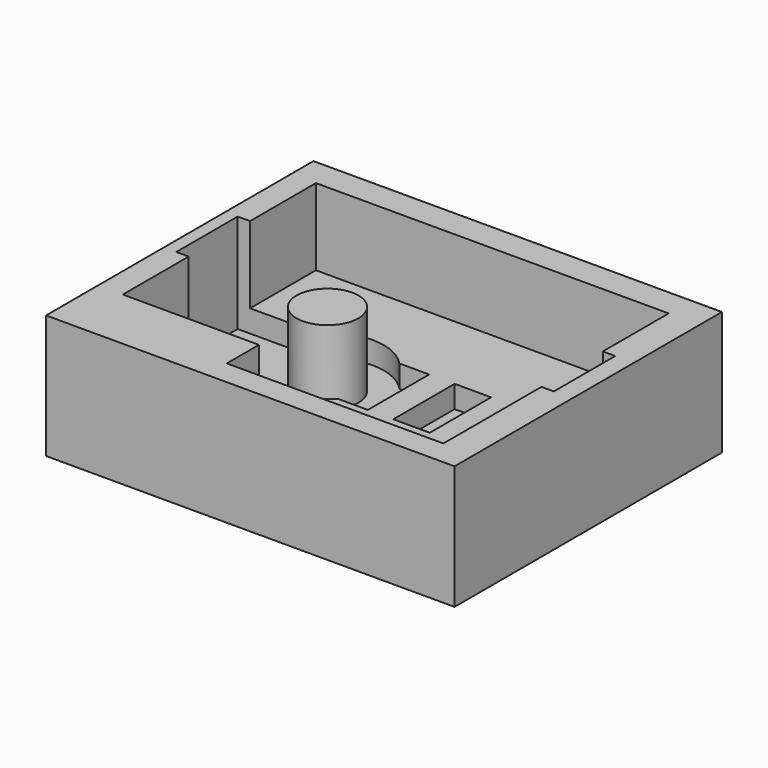
from build123d import *

# Parameters (mm, degrees)
PAD004_DEPTH             = 8.2
SKETCH014_W              = 28.5
SKETCH014_H              = 6.2
PAD005_DEPTH             = 1.8
SKETCH015_R              = 2.9
POCKET004_DEPTH          = 0.6
SKETCH016_W              = 2.05
SKETCH016_H              = 6.2
POCKET005_DEPTH          = 1.8
CLONE012_PLACEMENT_ANGLE = 180
BOX_W                    = 33
BOX_H                    = 27
BOX_DEPTH                = 10
SKETCH_W                 = 3
SKETCH_H                 = 3.25
POCKET009_DEPTH          = 6.2
SKETCH021_W              = 1
SKETCH021_H              = 6.2
POCKET010_DEPTH          = 8
SKETCH022_R              = 4.55
POCKET011_DEPTH          = 1.8
SKETCH023_R              = 2.5
PAD_DEPTH                = 6


with BuildPart() as body011:
    # Sketch013 → Pad004 (new body)
    with BuildSketch(Plane.XY):
        with BuildLine():
            Line((0, 0), (28.5, 0))
            Line((28.5, 0), (28.5, 22.75))
            Line((28.5, 22.75), (14, 22.75))
            Line((14, 22.75), (14, 22.5))
            ThreePointArc((11, 19.5), (13.12132, 20.37868), (14, 22.5))
            Line((11, 19.5), (0, 19.5))
            Line((0, 19.5), (0, 0))
        make_face()
    extrude(amount=PAD004_DEPTH)

    # Sketch014 (on Face9 of Pad004) → Pad005 (join)
    with BuildSketch(Plane.XY.offset(8.2)):
        with Locations((14.25, 9.75)):
            Rectangle(SKETCH014_W, SKETCH014_H)
    extrude(amount=PAD005_DEPTH)

    # Sketch015 (on Face11 of Pad005) → Pocket004 (cut)
    with BuildSketch(Plane.XY.offset(10)):
        with Locations((8.735056, 9.75)):
            Circle(SKETCH015_R)
    extrude(amount=-POCKET004_DEPTH, mode=Mode.SUBTRACT)

    # Sketch016 (on Face10 of Pocket004) → Pocket005 (cut)
    with BuildSketch(Plane.XY.offset(10)):
        with Locations((15.5, 9.75)):
            Rectangle(SKETCH016_W, SKETCH016_H)
        Polygon((21.525, 12.85), (21.525, 6.65), (19.475, 6.65), (19.475, 12.85), (20.5, 12.85), align=None)
        with Locations((25.5, 9.75)):
            Rectangle(SKETCH016_W, SKETCH016_H)
    extrude(amount=-POCKET005_DEPTH, mode=Mode.SUBTRACT)


with BuildPart() as body011_1:
    # Clone012 placement: moved
    add(body011.part.moved(Location((0, 22.75, 12))).rotate(Axis((0, 22.75, 12), (1, 0, 0)), CLONE012_PLACEMENT_ANGLE))


with BuildPart() as model_body012:
    # Box → Box (new body)
    with BuildSketch(Plane(origin=(-2, -2, 0), x_dir=(1, 0, 0), z_dir=(0, 0, 1))):
        with Locations((16.5, 13.5)):
            Rectangle(BOX_W, BOX_H)
    extrude(amount=BOX_DEPTH)

    # Cut: cut Body011
    add(body011_1.part, mode=Mode.SUBTRACT)

    # Sketch (on Face3 of BaseFeature001) → Pocket009 (cut)
    with BuildSketch(Plane.XY.offset(10)):
        with Locations((12.5, 1.625)):
            Rectangle(SKETCH_W, SKETCH_H)
    extrude(amount=-POCKET009_DEPTH, mode=Mode.SUBTRACT)

    # Sketch021 (on Face3 of Pocket009) → Pocket010 (cut)
    with BuildSketch(Plane.XY.offset(10)):
        with Locations((-0.5, 13)):
            Rectangle(SKETCH021_W, SKETCH021_H)
        with Locations((29, 13)):
            Rectangle(SKETCH021_W, SKETCH021_H)
    extrude(amount=-POCKET010_DEPTH, mode=Mode.SUBTRACT)

    # Sketch022 (on Face17 of Pocket010) → Pocket011 (cut)
    with BuildSketch(Plane.XY.offset(3.8)):
        with Locations((8.735056, 13)):
            Circle(SKETCH022_R)
    extrude(amount=-POCKET011_DEPTH, mode=Mode.SUBTRACT)

    # Sketch023 (on Face39 of Pocket011) → Pad (join)
    with BuildSketch(Plane.XY.offset(2)):
        with Locations((8.735056, 13)):
            Circle(SKETCH023_R)
    extrude(amount=PAD_DEPTH)


solid = model_body012.part
